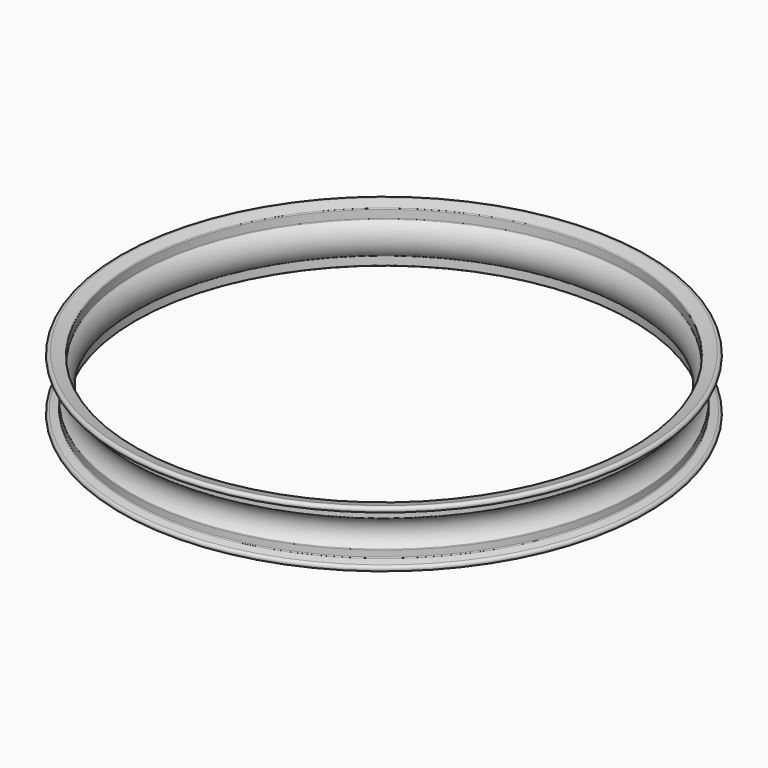
from build123d import *


with BuildPart() as f1:
    # F0 (on Front) → F1 (revolve)
    with BuildSketch(Plane.XZ):
        with BuildLine():
            ThreePointArc((17.914732, 17.437385), (17.704879, 17.758442), (17.631321, 18.13488))
            Line((17.631321, 18.13488), (17.631321, 26.958768))
            ThreePointArc((17.631321, 26.958768), (17.425517, 27.56643), (16.892815, 27.923973))
            Line((16.892815, 27.923973), (4.248346, 31.349621))
            ThreePointArc((4.248346, 31.349621), (0.485922, 28.975397), (3.168152, 25.425973))
            Line((3.168152, 25.425973), (10.892815, 23.333202))
            ThreePointArc((10.892815, 23.333202), (11.425517, 22.975659), (11.631321, 22.367997))
            Line((11.631321, 22.367997), (11.631321, 15.506441))
            ThreePointArc((11.631321, 15.506441), (11.728114, 15.077236), (11.999755, 14.731119))
            ThreePointArc((11.999755, 14.731119), (19, 0), (11.999755, -14.731119))
            ThreePointArc((11.999755, -14.731119), (11.728114, -15.077236), (11.631321, -15.506441))
            Line((11.631321, -15.506441), (11.631321, -22.367997))
            ThreePointArc((11.631321, -22.367997), (11.425517, -22.975659), (10.892815, -23.333202))
            Line((10.892815, -23.333202), (3.168152, -25.425973))
            ThreePointArc((3.168152, -25.425973), (0.485922, -28.975397), (4.248346, -31.349621))
            Line((4.248346, -31.349621), (16.892815, -27.923973))
            ThreePointArc((16.892815, -27.923973), (17.425517, -27.56643), (17.631321, -26.958768))
            Line((17.631321, -26.958768), (17.631321, -18.13488))
            ThreePointArc((17.631321, -18.13488), (17.704879, -17.758442), (17.914732, -17.437385))
            ThreePointArc((17.914732, -17.437385), (25, 0), (17.914732, 17.437385))
        make_face()
    revolve(axis=Axis((290.436907, 0, 0.230504), (0, 0, -1)))


solid = f1.part
